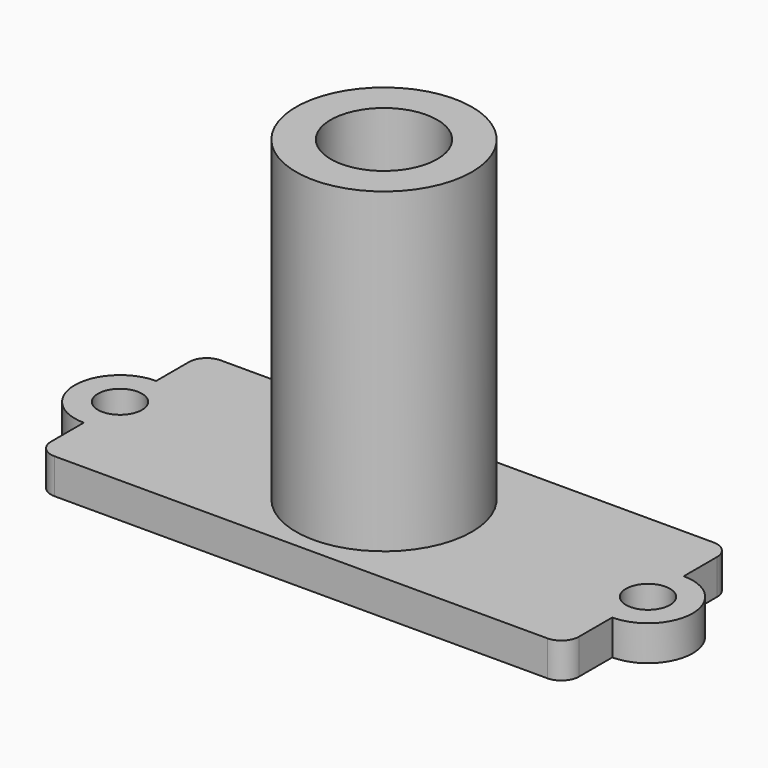
from build123d import *

# Parameters (mm, degrees)
F0_R     = 5
F0_R_2   = 3.6304219053
F0_R_3   = 3.0262783812
F1_DEPTH = 2
F2_DEPTH = 20
F3_D     = 2.5
F3_DEPTH = 10
F3_TIP   = 0.7510757738
F4_DEPTH = 5


with BuildPart() as f1:
    # F0 (on Top) → F1 (new body)
    with BuildSketch(Plane.XY):
        with BuildLine():
            Line((-14, -5.9018372558), (14, -5.9018372558))
            ThreePointArc((14, -5.9018372558), (14.7071067812, -5.608944037), (15, -4.9018372558))
            Line((15, -4.9018372558), (15, -2.5376267174))
            ThreePointArc((15, -2.5376267174), (17.5376267174, 0), (15, 2.5376267174))
            Line((15, 2.5376267174), (15, 4.9018372558))
            ThreePointArc((15, 4.9018372558), (14.7071067812, 5.608944037), (14, 5.9018372558))
            Line((14, 5.9018372558), (-14, 5.9018372558))
            ThreePointArc((-14, 5.9018372558), (-14.7071067812, 5.608944037), (-15, 4.9018372558))
            Line((-15, 4.9018372558), (-15, 2.5700507666))
            ThreePointArc((-15, 2.5700507666), (-17.5700507666, 0), (-15, -2.5700507666))
            Line((-15, -2.5700507666), (-15, -4.9018372558))
            ThreePointArc((-15, -4.9018372558), (-14.7071067812, -5.608944037), (-14, -5.9018372558))
        make_face()
        Circle(F0_R, mode=Mode.SUBTRACT)
        Circle(F0_R)
        Circle(F0_R_2, mode=Mode.SUBTRACT)
        Circle(F0_R_2)
        Circle(F0_R_3, mode=Mode.SUBTRACT)
    extrude(amount=F1_DEPTH)

    # F0 (on Top) → F2 (join)
    with BuildSketch(Plane.XY):
        Circle(F0_R)
        Circle(F0_R_2, mode=Mode.SUBTRACT)
        Circle(F0_R_2)
        Circle(F0_R_3, mode=Mode.SUBTRACT)
    extrude(amount=F2_DEPTH)

    # F3
    with Locations(Plane(origin=(0, 0, 0), x_dir=(1, 0, 0), z_dir=(0, 0, -1))):
        with Locations((-15, 0), (15, 0)):
            Hole(F3_D / 2, depth=F3_DEPTH)
            with Locations((0, 0, -(F3_DEPTH + F3_TIP / 2))):  # 118° drill point
                Cone(0, F3_D / 2, F3_TIP, mode=Mode.SUBTRACT)

    # F0 (on Top) → F4 (cut)
    with BuildSketch(Plane.XY):
        Circle(F0_R_2)
        Circle(F0_R_3, mode=Mode.SUBTRACT)
    extrude(amount=F4_DEPTH, mode=Mode.SUBTRACT)


solid = f1.part
